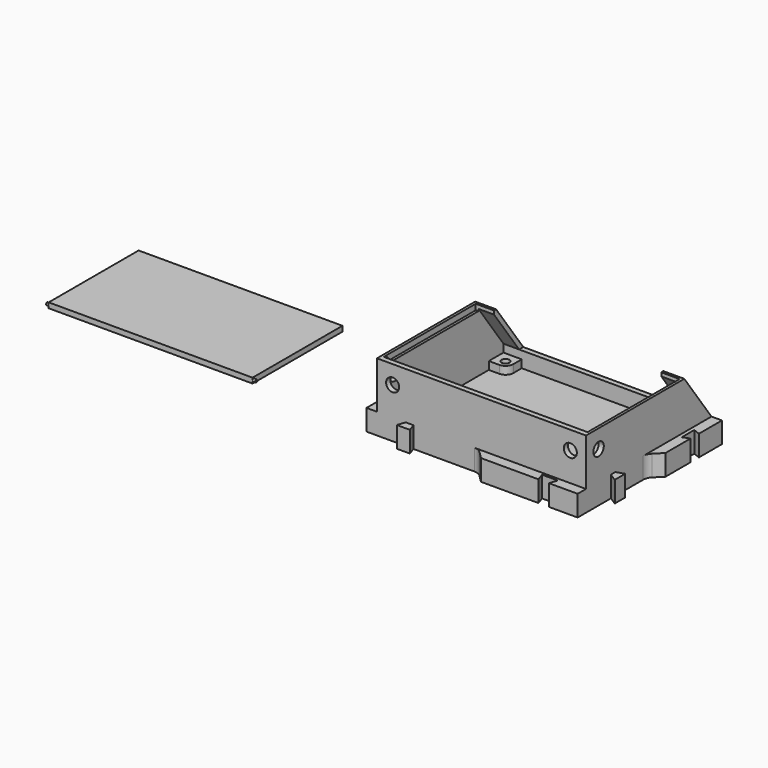
from build123d import *

# Parameters (mm, degrees)
SKETCH013_W   = 78
SKETCH013_H   = 43
PAD013_DEPTH  = 2
SKETCH014_R   = 0.5
PAD014_DEPTH  = 80
SKETCH015_R   = 2
PAD015_DEPTH  = 10
SKETCH012_R   = 2.5
PAD012_DEPTH  = 40
PAD011_DEPTH  = 8
FILLET_R      = 0.5
SKETCH010_R   = 2.5
PAD010_DEPTH  = 80
SKETCH009_R   = 0.75
PAD009_DEPTH  = 79
SKETCH004_W   = 44
SKETCH004_H   = 2.2
PAD004_DEPTH  = 78
SKETCH002_R   = 1.5
PAD002_DEPTH  = 3
SKETCH001_W   = 80
SKETCH001_H   = 60
SKETCH001_W_2 = 76
SKETCH001_H_2 = 56
PAD001_DEPTH  = 6
SKETCH_W      = 80
SKETCH_H      = 60
PAD_DEPTH     = 2
PAD005_DEPTH  = 2
PAD007_DEPTH  = 6
SKETCH008_W   = 2
SKETCH008_H   = 18
PAD008_DEPTH  = 76
PAD006_DEPTH  = 6
PAD003_DEPTH  = 2
FILLET001_R   = 4
CHAMFER_SIZE  = 1


with BuildPart() as pad013:
    # Sketch013 → Pad013 (new body)
    with BuildSketch(Plane.XY):
        with Locations((-89, -35.5)):
            Rectangle(SKETCH013_W, SKETCH013_H)
    extrude(amount=PAD013_DEPTH)


with BuildPart() as tampa:
    # Sketch014 → Pad014 (new body)
    with BuildSketch(Plane(origin=(-49, 0, 0), x_dir=(0, -1, 0), z_dir=(-1, 0, 0))):
        with Locations((56.5, 1)):
            Circle(SKETCH014_R)
    extrude(amount=PAD014_DEPTH)

    # Fusion004: union Pad013
    add(pad013.part)


with BuildPart() as obj1:
    # Sketch015 → Pad015 (new body)
    with BuildSketch(Plane.XY):
        with Locations((15, -25)):
            Circle(SKETCH015_R)
        with Locations((65, -25)):
            Circle(SKETCH015_R)
        with Locations((15, -50)):
            Circle(SKETCH015_R)
        with Locations((65, -50)):
            Circle(SKETCH015_R)
    extrude(amount=PAD015_DEPTH)


with BuildPart() as pad012:
    # Sketch012 → Pad012 (new body)
    with BuildSketch(Plane.XZ.offset(30)):
        with Locations((6, 19)):
            Circle(SKETCH012_R)
        with Locations((74, 19)):
            Circle(SKETCH012_R)
    extrude(amount=PAD012_DEPTH)


with BuildPart() as pad011:
    # Sketch011 → Pad011 (new body)
    with BuildSketch(Plane.XY):
        Polygon((0, -11), (-3, -10), (-3, -15), (0, -14), align=None)
        Polygon((0, -29), (-4, -33), (-4, -45), (-0.682166, -44), (-0.682166, -50), (-4, -49), (-4, -60), (0, -60), align=None)
        Polygon((11, -60), (10, -63), (15, -63), (14, -60), align=None)
        Polygon((39, -60), (43, -64), (65, -64), (64, -61), (70, -61), (69, -64), (80, -64), (80, -60), align=None)
        Polygon((80, 0), (80, -31), (84, -27), (84, -15), (81.417573, -16), (81.417573, -10), (84, -11), (84, 0), align=None)
        Polygon((80, -46), (83, -45), (83, -50), (80, -48.129196), align=None)
    extrude(amount=PAD011_DEPTH)


with BuildPart() as fillet_body:
    # Fillet base: copy of Pad011
    add(pad011.part)

    # Fillet
    fillet_edges = [fillet_body.edges().sort_by_distance(p)[0] for p in [
        (-3, -10, 4),
        (-3, -15, 4),
        (-4, -45, 4),
        (-4, -49, 4),
        (10, -63, 4),
        (15, -63, 4),
        (65, -64, 4),
        (69, -64, 4),
        (83, -50, 4),
        (83, -45, 4),
        (84, -15, 4),
        (84, -11, 4),
    ]]
    fillet(fillet_edges, radius=FILLET_R)


with BuildPart() as pad010:
    # Sketch010 → Pad010 (new body)
    with BuildSketch(Plane.YZ):
        with Locations((-54, 19)):
            Circle(SKETCH010_R)
    extrude(amount=PAD010_DEPTH)


with BuildPart() as pad009:
    # Sketch009 → Pad009 (new body)
    with BuildSketch(Plane.YZ.offset(0.5)):
        with Locations((-57, 25)):
            Circle(SKETCH009_R)
    extrude(amount=PAD009_DEPTH)


with BuildPart() as obj2:
    # Sketch004 → Pad004 (new body)
    with BuildSketch(Plane.YZ.offset(1)):
        with Locations((-36, 24.9)):
            Rectangle(SKETCH004_W, SKETCH004_H)
    extrude(amount=PAD004_DEPTH)


with BuildPart() as pad002:
    # Sketch002 → Pad002 (new body)
    with BuildSketch(Plane.XY.offset(2)):
        with BuildLine():
            Line((9, 0), (9, -6))
            ThreePointArc((6, -9), (8.12132, -8.12132), (9, -6))
            Line((0, -9), (6, -9))
            Line((0, 0), (0, -9))
            Line((0, 0), (9, 0))
        make_face()
        with Locations((6, -6)):
            Circle(SKETCH002_R, mode=Mode.SUBTRACT)
        with BuildLine():
            Line((71, 0), (80, 0))
            Line((80, 0), (80, -9))
            Line((80, -9), (74, -9))
            ThreePointArc((71, -6), (71.87868, -8.12132), (74, -9))
            Line((71, 0), (71, -6))
        make_face()
        with Locations((74, -6)):
            Circle(SKETCH002_R, mode=Mode.SUBTRACT)
        with BuildLine():
            Line((6, -51), (0, -51))
            Line((0, -51), (0, -60))
            Line((0, -60), (9, -60))
            Line((9, -60), (9, -54))
            ThreePointArc((9, -54), (8.12132, -51.87868), (6, -51))
        make_face()
        with Locations((6, -54)):
            Circle(SKETCH002_R, mode=Mode.SUBTRACT)
        with BuildLine():
            Line((71, -54), (71, -60))
            Line((71, -60), (80, -60))
            Line((80, -60), (80, -51))
            Line((80, -51), (74, -51))
            ThreePointArc((74, -51), (71.87868, -51.87868), (71, -54))
        make_face()
        with Locations((74, -54)):
            Circle(SKETCH002_R, mode=Mode.SUBTRACT)
    extrude(amount=PAD002_DEPTH)


with BuildPart() as pad001:
    # Sketch001 → Pad001 (new body)
    with BuildSketch(Plane.XY.offset(2)):
        with Locations((40, -30)):
            Rectangle(SKETCH001_W, SKETCH001_H)
        with Locations((40, -30)):
            Rectangle(SKETCH001_W_2, SKETCH001_H_2, mode=Mode.SUBTRACT)
    extrude(amount=PAD001_DEPTH)


with BuildPart() as base:
    # Sketch → Pad (new body)
    with BuildSketch(Plane.XY):
        with Locations((40, -30)):
            Rectangle(SKETCH_W, SKETCH_H)
    extrude(amount=PAD_DEPTH)


with BuildPart() as pad005:
    # Sketch005 → Pad005 (new body)
    with BuildSketch(Plane.YZ.offset(78)):
        Polygon((0, 8), (-60, 8), (-60, 26), (-13, 26), align=None)
    extrude(amount=PAD005_DEPTH)


with BuildPart() as pad007:
    # Sketch007 → Pad007 (new body)
    with BuildSketch(Plane.YZ.offset(72)):
        Polygon((0, 8), (-2, 8), (-15, 26), (-13, 26), align=None)
    extrude(amount=PAD007_DEPTH)


with BuildPart() as pad008:
    # Sketch008 → Pad008 (new body)
    with BuildSketch(Plane.YZ.offset(2)):
        with Locations((-59, 17)):
            Rectangle(SKETCH008_W, SKETCH008_H)
    extrude(amount=PAD008_DEPTH)


with BuildPart() as pad006:
    # Sketch006 → Pad006 (new body)
    with BuildSketch(Plane.YZ.offset(2)):
        Polygon((0, 8), (-2, 8), (-15, 26), (-13, 26), align=None)
    extrude(amount=PAD006_DEPTH)


with BuildPart() as cut002:
    # Sketch003 → Pad003 (new body)
    with BuildSketch(Plane.YZ):
        Polygon((0, 8), (-60, 8), (-60, 26), (-13, 26), align=None)
    extrude(amount=PAD003_DEPTH)

    # Fusion: union Pad002, Pad001, Base, Pad005, Pad007, Pad008, Pad006
    add(pad002.part)
    add(pad001.part)
    add(base.part)
    add(pad005.part)
    add(pad007.part)
    add(pad008.part)
    add(pad006.part)

    # Cut: cut obj2
    add(obj2.part, mode=Mode.SUBTRACT)

    # Cut001: cut Pad009
    add(pad009.part, mode=Mode.SUBTRACT)

    # Cut002: cut Pad010
    add(pad010.part, mode=Mode.SUBTRACT)


with BuildPart() as fusion002:
    # Fusion001 base: copy of Pad011
    add(pad011.part)

    # Fusion001: union Cut002
    add(cut002.part)

    # Fusion002: union Fillet body
    add(fillet_body.part)


with BuildPart() as fillet001:
    # Fillet001 base: copy of Fusion002
    add(fusion002.part)

    # Fillet001
    fillet001_edges = [fillet001.edges().sort_by_distance(p)[0] for p in [
        (84, -27, 4),
        (80, -31, 5),
        (80, -31, 1),
        (43, -64, 4),
        (39, -60, 5),
        (39, -60, 1),
        (-4, -33, 4),
        (0, -29, 5),
        (0, -29, 1),
    ]]
    fillet(fillet001_edges, radius=FILLET001_R)


with BuildPart() as chamfer_body:
    # Fusion003 base: copy of Fusion002
    add(fusion002.part)

    # Fusion003: union Fillet001
    add(fillet001.part)

    # Cut003: cut Pad012
    add(pad012.part, mode=Mode.SUBTRACT)

    # Cut004: cut obj1
    add(obj1.part, mode=Mode.SUBTRACT)

    # Chamfer
    chamfer_edges = [chamfer_body.edges().sort_by_distance(p)[0] for p in [
        (13, -25, 2),
        (63, -25, 2),
        (63, -50, 2),
        (13, -50, 2),
    ]]
    chamfer(chamfer_edges, length=CHAMFER_SIZE)


solid = Compound([tampa.part, chamfer_body.part])
